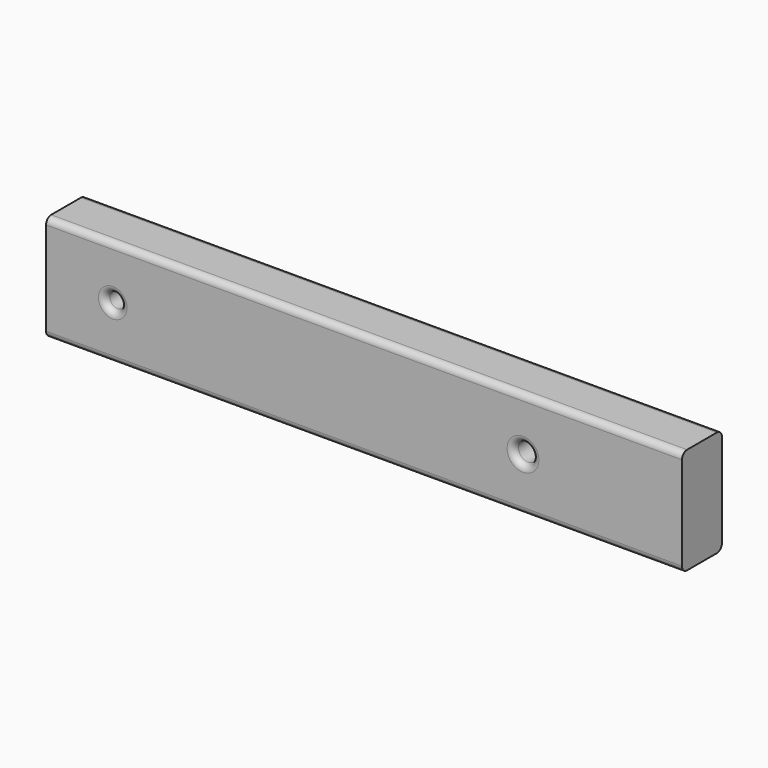
from build123d import *

# Parameters (mm, degrees)
F0_R     = 6.35
F0_R_2   = 7.62
F1_DEPTH = 39.878
F2_R     = 5.08


with BuildPart() as f1:
    # F0 (on Front) → F1 (new body)
    with BuildSketch(Plane.XZ):
        Polygon((-254, -42.434722), (254, -42.434722), (254, 42.434722), (127, 42.434722), (-200.728908, 42.434722), (-254, 42.434722), align=None)
        with Locations((-200.728908, 0)):
            Circle(F0_R, mode=Mode.SUBTRACT)
        with Locations((127, 0)):
            Circle(F0_R_2, mode=Mode.SUBTRACT)
    extrude(amount=F1_DEPTH)

    # F2
    f2_edges = [f1.edges().sort_by_distance(p)[0] for p in [
        (0, 0, 42.434722),
        (0, 0, -42.434722),
        (119.38, 0, 0),
        (-207.078908, 0, 0),
        (0, -39.878, 42.434722),
        (0, -39.878, -42.434722),
        (-207.078908, -39.878, 0),
        (119.38, -39.878, 0),
    ]]
    fillet(f2_edges, radius=F2_R)


solid = f1.part
